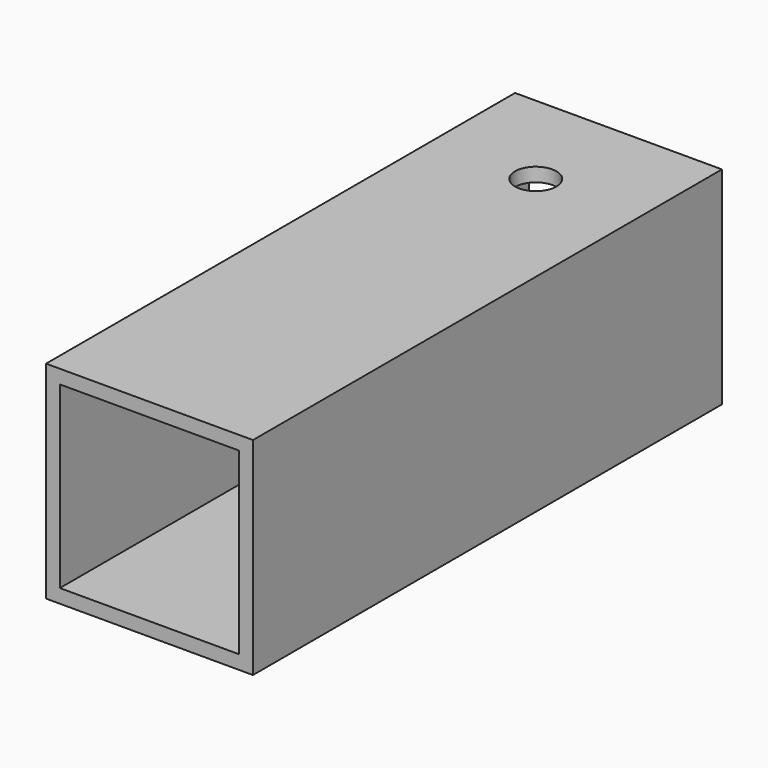
from build123d import *

# Parameters (mm, degrees)
F0_W     = 60
F0_H     = 60
F0_W_2   = 52
F0_H_2   = 52
F1_DEPTH = 170
F2_R     = 6
F3_DEPTH = 10


with BuildPart() as f1:
    # F0 (on Front) → F1 (new body)
    with BuildSketch(Plane.XZ):
        with Locations((30, 30)):
            Rectangle(F0_W, F0_H)
        with Locations((30, 30)):
            Rectangle(F0_W_2, F0_H_2, mode=Mode.SUBTRACT)
    extrude(amount=F1_DEPTH)

    # F2 (on face) → F3 (cut)
    with BuildSketch(Plane.XY.offset(60)):
        with Locations((30, -30)):
            Circle(F2_R)
    extrude(amount=-F3_DEPTH, mode=Mode.SUBTRACT)


solid = f1.part
